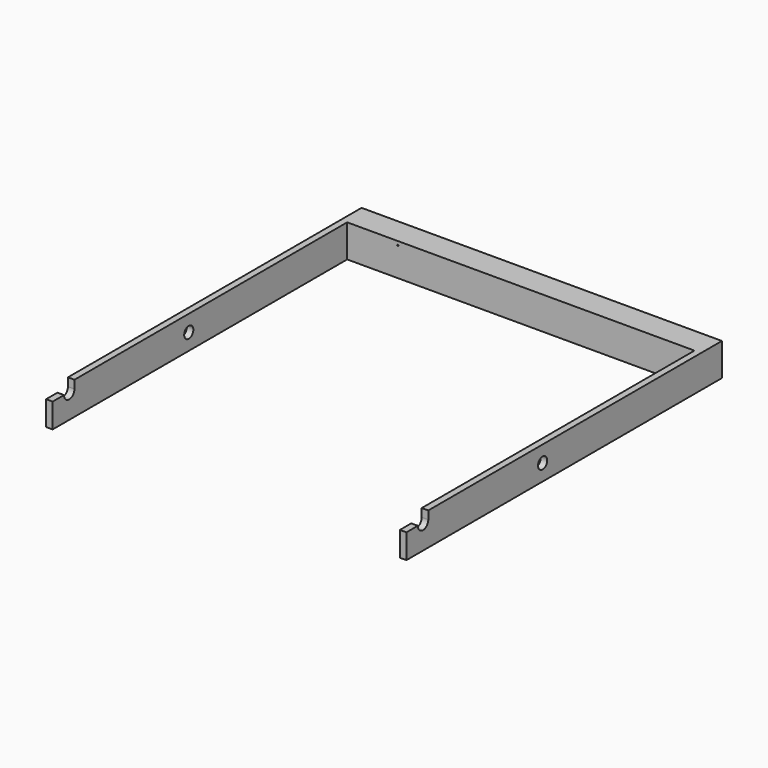
from build123d import *

# Parameters (mm, degrees)
F0_R     = 17.5
F1_DEPTH = 20
F2_W     = 80
F2_H     = 100
F2_W_2   = 70
F2_H_2   = 90
F3_DEPTH = 1062.5
F6_R     = 2
F7_DEPTH = 5


with BuildPart() as f1:
    # F0 (on Right) → F1 (new body)
    with BuildSketch(Plane.YZ):
        with BuildLine():
            Line((-1206.5, 0), (0, 0))
            Line((0, 0), (0, 100))
            Line((0, 100), (-1123, 100))
            Line((-1123, 100), (-1123, 75))
            ThreePointArc((-1123, 75), (-1143, 55), (-1163, 75))
            Line((-1163, 75), (-1206.5, 75))
            Line((-1206.5, 75), (-1206.5, 0))
        make_face()
        with Locations((-685.8, 50)):
            Circle(F0_R, mode=Mode.SUBTRACT)
    extrude(amount=-F1_DEPTH)

    # F2 (on face) → F3 (join)
    with BuildSketch(Plane(origin=(-20, 0, 0), x_dir=(0, -1, 0), z_dir=(-1, 0, 0))):
        with Locations((40, 50)):
            Rectangle(F2_W, F2_H)
        with Locations((40, 50)):
            Rectangle(F2_W_2, F2_H_2, mode=Mode.SUBTRACT)
    extrude(amount=F3_DEPTH)

    # F5: F1 across plane


with BuildPart() as f1_1:
    add(f1.part)
    add(f1.part.mirror(Plane(origin=(-551.25, -630.0028317099, 49.186434827), x_dir=(0, -1, 0), z_dir=(-1, 0, 0))))

    # F6 (on face) → F7 (cut, through all)
    with BuildSketch(Plane.XZ.offset(80)):
        with Locations((-927.5, 88)):
            Circle(F6_R)
    extrude(amount=-F7_DEPTH, mode=Mode.SUBTRACT)


solid = f1_1.part
